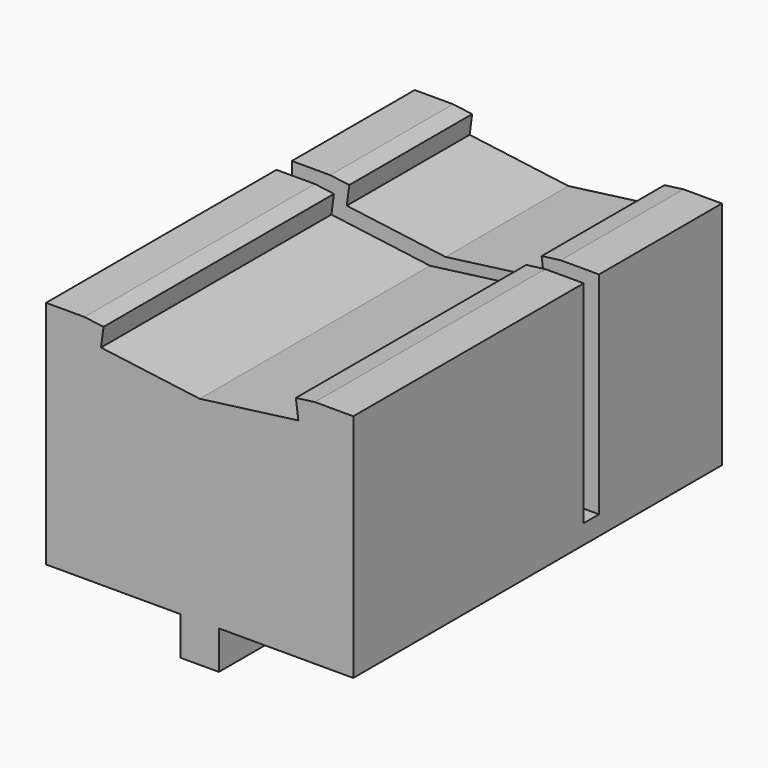
from build123d import *

# Parameters (mm, degrees)
F1_DEPTH = 152.4
F2_W     = 6.35
F2_H     = 76.2
F3_DEPTH = 101.601


with BuildPart() as f1:
    # F0 (on Front) → F1 (new body)
    with BuildSketch(Plane.XZ):
        Polygon((-6.35, 12.7), (-6.35, 0), (6.35, 0), (6.35, 12.7), (50.8, 12.7), (50.8, 88.9), (38.1, 88.9), (31.804325, 88.071159), (32.633166, 81.775484), (0, 77.479246), (-32.633166, 81.775484), (-31.804325, 88.071159), (-38.1, 88.9), (-50.8, 88.9), (-50.8, 12.7), align=None)
    extrude(amount=F1_DEPTH)

    # F2 (on face) → F3 (cut, through all)
    with BuildSketch(Plane.YZ.offset(50.8)):
        with Locations((-53.975, 57.15)):
            Rectangle(F2_W, F2_H)
    extrude(amount=-F3_DEPTH, mode=Mode.SUBTRACT)


solid = f1.part
